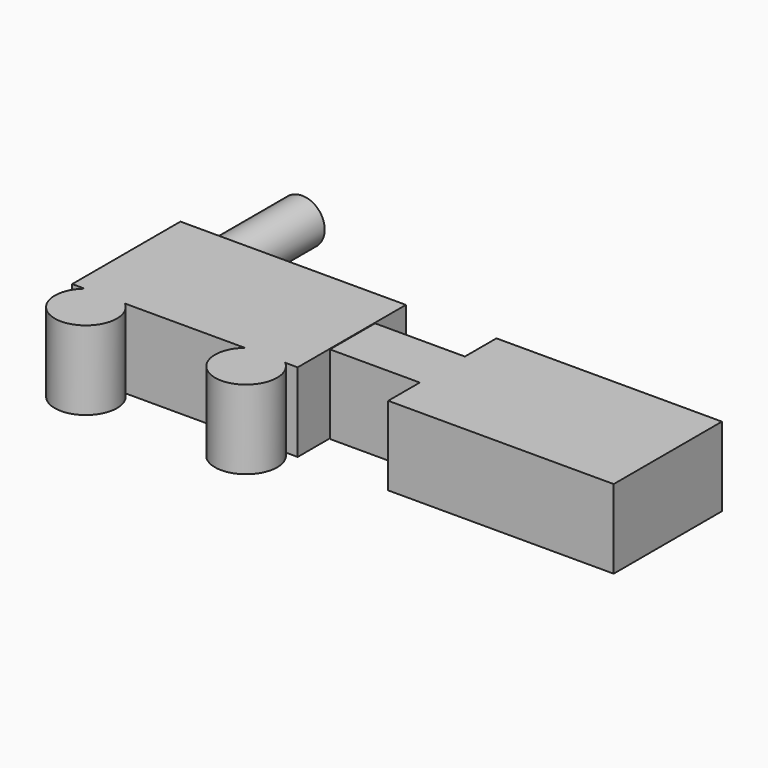
from build123d import *

# Parameters (mm, degrees)
F1_DEPTH = 17.5
F2_R     = 10
F2_R_2   = 9
F3_DEPTH = 52.8
F4_DEPTH = 7.5
F0_W     = 10.1569265127
F0_H     = 25
F0_W_2   = 39.8430734873
F5_DEPTH = 17.5


with BuildPart() as f1:
    # F0 (on Top) → F1 (new body, symmetric)
    with BuildSketch(Plane.XY):
        with BuildLine():
            Line((50, -30), (50, 30))
            Line((50, 30), (-50, 30))
            Line((-50, 30), (-50, -30))
            Line((-50, -30), (-44.4656194828, -30))
            ThreePointArc((-44.4656194828, -30), (-35.5191864073, -26.7071517289), (-26.5727533318, -30))
            Line((-26.5727533318, -30), (26.5727533318, -30))
            ThreePointArc((26.5727533318, -30), (35.5191864073, -26.7071517289), (44.4656194828, -30))
            Line((44.4656194828, -30), (50, -30))
        make_face()
    extrude(amount=F1_DEPTH, both=True)

    # F2 (on face) → F3 (join)
    with BuildSketch(Plane(origin=(0, 30, 0), x_dir=(-1, 0, 0), z_dir=(0, 1, 0))):
        with Locations((38.2511450312, 0)):
            Circle(F2_R)
        with Locations((38.2511450312, 0)):
            Circle(F2_R_2, mode=Mode.SUBTRACT)
    extrude(amount=F3_DEPTH)


with BuildPart() as f4:
    # F0 (on Top) → F4 (new body, symmetric)
    with BuildSketch(Plane.XY):
        with BuildLine():
            Line((50, -30), (50, 30))
            Line((50, 30), (-50, 30))
            Line((-50, 30), (-50, -30))
            Line((-50, -30), (-44.4656194828, -30))
            ThreePointArc((-44.4656194828, -30), (-35.5191864073, -26.7071517289), (-26.5727533318, -30))
            Line((-26.5727533318, -30), (26.5727533318, -30))
            ThreePointArc((26.5727533318, -30), (35.5191864073, -26.7071517289), (44.4656194828, -30))
            Line((44.4656194828, -30), (50, -30))
        make_face()
        with BuildLine():
            ThreePointArc((49.319019717, -40.5069850385), (48.0470490449, -34.7200983878), (44.4656194828, -30))
            Line((44.4656194828, -30), (26.5727533318, -30))
            ThreePointArc((26.5727533318, -30), (29.7322997566, -53.0348476761), (49.319019717, -40.5069850385))
        make_face()
        with BuildLine():
            Line((26.5727533318, -30), (44.4656194828, -30))
            ThreePointArc((44.4656194828, -30), (35.5191864073, -26.7071517289), (26.5727533318, -30))
        make_face()
        with BuildLine():
            ThreePointArc((-26.5727533318, -30), (-35.5191864073, -26.7071517289), (-44.4656194828, -30))
            Line((-44.4656194828, -30), (-26.5727533318, -30))
        make_face()
        with BuildLine():
            Line((-26.5727533318, -30), (-44.4656194828, -30))
            ThreePointArc((-44.4656194828, -30), (-41.306073058, -53.0348476761), (-21.7193530977, -40.5069850385))
            ThreePointArc((-21.7193530977, -40.5069850385), (-22.9913237698, -34.7200983878), (-26.5727533318, -30))
        make_face()
    extrude(amount=F4_DEPTH, both=True)


with BuildPart() as f4b:
    # F0 (on Top) → F4, piece 2 (new body, symmetric)
    with BuildSketch(Plane.XY):
        with Locations((95.2413186431, 0)):
            Rectangle(F0_W, F0_H)
        Polygon((90.1628553867, 12.5), (100.3197818995, 12.5), (100.3197818995, -12.5), (90.1628553867, -12.5), (90.1628553867, -30), (190.1628553867, -30), (190.1628553867, 30), (90.1628553867, 30), align=None)
        with Locations((70.2413186431, 0)):
            Rectangle(F0_W_2, F0_H)
    extrude(amount=F4_DEPTH, both=True)


with BuildPart() as f5:
    # F0 (on Top) → F5 (new body, symmetric)
    with BuildSketch(Plane.XY):
        with BuildLine():
            Line((50, -30), (50, 30))
            Line((50, 30), (-50, 30))
            Line((-50, 30), (-50, -30))
            Line((-50, -30), (-44.4656194828, -30))
            ThreePointArc((-44.4656194828, -30), (-35.5191864073, -26.7071517289), (-26.5727533318, -30))
            Line((-26.5727533318, -30), (26.5727533318, -30))
            ThreePointArc((26.5727533318, -30), (35.5191864073, -26.7071517289), (44.4656194828, -30))
            Line((44.4656194828, -30), (50, -30))
        make_face()
        with BuildLine():
            ThreePointArc((49.319019717, -40.5069850385), (48.0470490449, -34.7200983878), (44.4656194828, -30))
            Line((44.4656194828, -30), (26.5727533318, -30))
            ThreePointArc((26.5727533318, -30), (29.7322997566, -53.0348476761), (49.319019717, -40.5069850385))
        make_face()
        with BuildLine():
            Line((26.5727533318, -30), (44.4656194828, -30))
            ThreePointArc((44.4656194828, -30), (35.5191864073, -26.7071517289), (26.5727533318, -30))
        make_face()
        with BuildLine():
            ThreePointArc((-26.5727533318, -30), (-35.5191864073, -26.7071517289), (-44.4656194828, -30))
            Line((-44.4656194828, -30), (-26.5727533318, -30))
        make_face()
        with BuildLine():
            Line((-26.5727533318, -30), (-44.4656194828, -30))
            ThreePointArc((-44.4656194828, -30), (-41.306073058, -53.0348476761), (-21.7193530977, -40.5069850385))
            ThreePointArc((-21.7193530977, -40.5069850385), (-22.9913237698, -34.7200983878), (-26.5727533318, -30))
        make_face()
    extrude(amount=F5_DEPTH, both=True)


with BuildPart() as f5b:
    # F0 (on Top) → F5, piece 2 (new body, symmetric)
    with BuildSketch(Plane.XY):
        with Locations((95.2413186431, 0)):
            Rectangle(F0_W, F0_H)
        Polygon((90.1628553867, 12.5), (100.3197818995, 12.5), (100.3197818995, -12.5), (90.1628553867, -12.5), (90.1628553867, -30), (190.1628553867, -30), (190.1628553867, 30), (90.1628553867, 30), align=None)
        with Locations((70.2413186431, 0)):
            Rectangle(F0_W_2, F0_H)
    extrude(amount=F5_DEPTH, both=True)


solid = Compound([f1.part, f4.part, f4b.part, f5.part, f5b.part])
